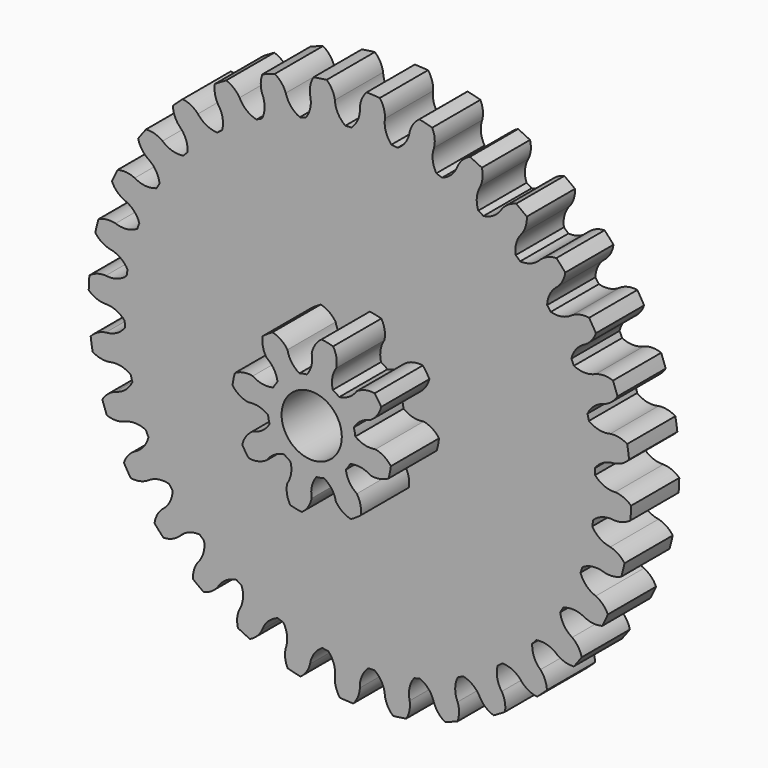
from build123d import *

# Parameters (mm, degrees)
F1_DEPTH = 6
F2_R     = 3
F3_DEPTH = 6.001
F4_R     = 3
F5_DEPTH = 6


with BuildPart() as f1:
    # F0 (on Front) → F1 (new body)
    with BuildSketch(Plane.XZ):
        with BuildLine():
            ThreePointArc((23.226319, -3.142921), (23.38502, -1.575021), (23.438, 0))
            ThreePointArc((23.438, 0), (23.434155, 0.424518), (23.422622, 0.848897))
            ThreePointArc((23.422622, 0.848897), (23.409825, 1.148893), (23.393185, 1.448699))
            ThreePointArc((23.393185, 1.448699), (23.184489, 3.437924), (22.806951, 5.402113))
            ThreePointArc((22.806951, 5.402113), (22.735874, 5.693847), (22.661064, 5.984647))
            ThreePointArc((22.661064, 5.984647), (22.0683, 7.894935), (21.314822, 9.747728))
            ThreePointArc((21.314822, 9.747728), (21.188196, 10.01999), (21.058092, 10.290608))
            ThreePointArc((21.058092, 10.290608), (20.104038, 12.048548), (19.003576, 13.718744))
            ThreePointArc((19.003576, 13.718744), (18.826267, 13.961071), (18.645868, 14.201107))
            ThreePointArc((18.645868, 14.201107), (17.367189, 15.739142), (15.962034, 17.162556))
            ThreePointArc((15.962034, 17.162556), (15.740856, 17.365636), (15.517095, 17.565865))
            ThreePointArc((15.517095, 17.565865), (13.96293, 18.824889), (12.307079, 19.94682))
            ThreePointArc((12.307079, 19.94682), (12.050532, 20.102848), (11.792008, 20.255577))
            ThreePointArc((11.792008, 20.255577), (10.022082, 21.187206), (8.179171, 21.96454))
            ThreePointArc((8.179171, 21.96454), (7.897114, 22.06752), (7.613761, 22.166878))
            ThreePointArc((7.613761, 22.166878), (5.696092, 22.735311), (3.736941, 23.138174))
            ThreePointArc((3.736941, 23.138174), (3.440213, 23.184149), (3.142921, 23.226319))
            ThreePointArc((3.142921, 23.226319), (1.151204, 23.409711), (-0.848897, 23.422622))
            ThreePointArc((-0.848897, 23.422622), (-1.148893, 23.409825), (-1.448699, 23.393185))
            ThreePointArc((-1.448699, 23.393185), (-3.437924, 23.184489), (-5.402113, 22.806951))
            ThreePointArc((-5.402113, 22.806951), (-5.693847, 22.735874), (-5.984647, 22.661064))
            ThreePointArc((-5.984647, 22.661064), (-7.894935, 22.0683), (-9.747728, 21.314822))
            ThreePointArc((-9.747728, 21.314822), (-10.01999, 21.188196), (-10.290608, 21.058092))
            ThreePointArc((-10.290608, 21.058092), (-12.048548, 20.104038), (-13.718744, 19.003576))
            ThreePointArc((-13.718744, 19.003576), (-13.961071, 18.826267), (-14.201107, 18.645868))
            ThreePointArc((-14.201107, 18.645868), (-15.739142, 17.367189), (-17.162556, 15.962034))
            ThreePointArc((-17.162556, 15.962034), (-17.365636, 15.740856), (-17.565865, 15.517095))
            ThreePointArc((-17.565865, 15.517095), (-18.824889, 13.96293), (-19.94682, 12.307079))
            ThreePointArc((-19.94682, 12.307079), (-20.102848, 12.050532), (-20.255577, 11.792008))
            ThreePointArc((-20.255577, 11.792008), (-21.187206, 10.022082), (-21.96454, 8.179171))
            ThreePointArc((-21.96454, 8.179171), (-22.06752, 7.897114), (-22.166878, 7.613761))
            ThreePointArc((-22.166878, 7.613761), (-22.735311, 5.696092), (-23.138174, 3.736941))
            ThreePointArc((-23.138174, 3.736941), (-23.184149, 3.440213), (-23.226319, 3.142921))
            ThreePointArc((-23.226319, 3.142921), (-23.409711, 1.151204), (-23.422622, -0.848897))
            ThreePointArc((-23.422622, -0.848897), (-23.409825, -1.148893), (-23.393185, -1.448699))
            ThreePointArc((-23.393185, -1.448699), (-23.184489, -3.437924), (-22.806951, -5.402113))
            ThreePointArc((-22.806951, -5.402113), (-22.735874, -5.693847), (-22.661064, -5.984647))
            ThreePointArc((-22.661064, -5.984647), (-22.0683, -7.894935), (-21.314822, -9.747728))
            ThreePointArc((-21.314822, -9.747728), (-21.188196, -10.01999), (-21.058092, -10.290608))
            ThreePointArc((-21.058092, -10.290608), (-20.104038, -12.048548), (-19.003576, -13.718744))
            ThreePointArc((-19.003576, -13.718744), (-18.826267, -13.961071), (-18.645868, -14.201107))
            ThreePointArc((-18.645868, -14.201107), (-17.367189, -15.739142), (-15.962034, -17.162556))
            ThreePointArc((-15.962034, -17.162556), (-15.740856, -17.365636), (-15.517095, -17.565865))
            ThreePointArc((-15.517095, -17.565865), (-13.96293, -18.824889), (-12.307079, -19.94682))
            ThreePointArc((-12.307079, -19.94682), (-12.050532, -20.102848), (-11.792008, -20.255577))
            ThreePointArc((-11.792008, -20.255577), (-10.022082, -21.187206), (-8.179171, -21.96454))
            ThreePointArc((-8.179171, -21.96454), (-7.897114, -22.06752), (-7.613761, -22.166878))
            ThreePointArc((-7.613761, -22.166878), (-5.696092, -22.735311), (-3.736941, -23.138174))
            ThreePointArc((-3.736941, -23.138174), (-3.440213, -23.184149), (-3.142921, -23.226319))
            ThreePointArc((-3.142921, -23.226319), (-1.151204, -23.409711), (0.848897, -23.422622))
            ThreePointArc((0.848897, -23.422622), (1.148893, -23.409825), (1.448699, -23.393185))
            ThreePointArc((1.448699, -23.393185), (3.437924, -23.184489), (5.402113, -22.806951))
            ThreePointArc((5.402113, -22.806951), (5.693847, -22.735874), (5.984647, -22.661064))
            ThreePointArc((5.984647, -22.661064), (7.894935, -22.0683), (9.747728, -21.314822))
            ThreePointArc((9.747728, -21.314822), (10.01999, -21.188196), (10.290608, -21.058092))
            ThreePointArc((10.290608, -21.058092), (12.048548, -20.104038), (13.718744, -19.003576))
            ThreePointArc((13.718744, -19.003576), (13.961071, -18.826267), (14.201107, -18.645868))
            ThreePointArc((14.201107, -18.645868), (15.739142, -17.367189), (17.162556, -15.962034))
            ThreePointArc((17.162556, -15.962034), (17.365636, -15.740856), (17.565865, -15.517095))
            ThreePointArc((17.565865, -15.517095), (18.824889, -13.96293), (19.94682, -12.307079))
            ThreePointArc((19.94682, -12.307079), (20.102848, -12.050532), (20.255577, -11.792008))
            ThreePointArc((20.255577, -11.792008), (21.187206, -10.022082), (21.96454, -8.179171))
            ThreePointArc((21.96454, -8.179171), (22.06752, -7.897114), (22.166878, -7.613761))
            ThreePointArc((22.166878, -7.613761), (22.735311, -5.696092), (23.138174, -3.736941))
            ThreePointArc((23.138174, -3.736941), (23.184149, -3.440213), (23.226319, -3.142921))
        make_face()
        with BuildLine():
            ThreePointArc((23.422622, 0.848897), (23.434155, 0.424518), (23.438, 0))
            ThreePointArc((23.438, 0), (23.38502, -1.575021), (23.226319, -3.142921))
            ThreePointArc((23.226319, -3.142921), (24.189569, -2.581084), (25.30133, -2.494486))
            ThreePointArc((25.30133, -2.494486), (26.165813, -2.384789), (26.939987, -1.984765))
            ThreePointArc((26.939987, -1.984765), (26.980396, -1.326797), (27.004738, -0.668039))
            ThreePointArc((27.004738, -0.668039), (26.273549, -0.193986), (25.424, 0))
            ThreePointArc((25.424, 0), (24.3261, 0.195261), (23.422622, 0.848897))
        make_face()
        with BuildLine():
            ThreePointArc((22.806951, 5.402113), (23.184489, 3.437924), (23.393185, 1.448699))
            ThreePointArc((23.393185, 1.448699), (24.228318, 2.187662), (25.301822, 2.48949))
            ThreePointArc((25.301822, 2.48949), (26.128294, 2.765731), (26.809551, 3.309103))
            ThreePointArc((26.809551, 3.309103), (26.720821, 3.962311), (26.616178, 4.61316))
            ThreePointArc((26.616178, 4.61316), (25.806555, 4.935456), (24.935485, 4.959976))
            ThreePointArc((24.935485, 4.959976), (23.820587, 4.937296), (22.806951, 5.402113))
        make_face()
        with BuildLine():
            ThreePointArc((24.935485, -4.959976), (23.896774, -4.554277), (23.138174, -3.736941))
            ThreePointArc((23.138174, -3.736941), (22.735311, -5.696092), (22.166878, -7.613761))
            ThreePointArc((22.166878, -7.613761), (23.221229, -7.25064), (24.328522, -7.382599))
            ThreePointArc((24.328522, -7.382599), (25.197795, -7.443663), (26.035134, -7.202359))
            ThreePointArc((26.035134, -7.202359), (26.20313, -6.564917), (26.355522, -5.923566))
            ThreePointArc((26.355522, -5.923566), (25.730865, -5.315974), (24.935485, -4.959976))
        make_face()
        with BuildLine():
            ThreePointArc((21.314822, 9.747728), (22.0683, 7.894935), (22.661064, 5.984647))
            ThreePointArc((22.661064, 5.984647), (23.335986, 6.872337), (24.32998, 7.377796))
            ThreePointArc((24.32998, 7.377796), (25.086679, 7.809965), (25.648839, 8.475803))
            ThreePointArc((25.648839, 8.475803), (25.434379, 9.09915), (25.204772, 9.717078))
            ThreePointArc((25.204772, 9.717078), (24.347829, 9.875232), (23.488713, 9.729344))
            ThreePointArc((23.488713, 9.729344), (22.399662, 9.489593), (21.314822, 9.747728))
        make_face()
        with BuildLine():
            ThreePointArc((23.488713, -9.729344), (22.549109, -9.128797), (21.96454, -8.179171))
            ThreePointArc((21.96454, -8.179171), (21.187206, -10.022082), (20.255577, -11.792008))
            ThreePointArc((20.255577, -11.792008), (21.36051, -11.641558), (22.420783, -11.987004))
            ThreePointArc((22.420783, -11.987004), (23.26144, -12.216481), (24.129766, -12.14317))
            ThreePointArc((24.129766, -12.14317), (24.418893, -11.550751), (24.693478, -10.951453))
            ThreePointArc((24.693478, -10.951453), (24.199359, -10.233672), (23.488713, -9.729344))
        make_face()
        with BuildLine():
            ThreePointArc((19.003576, 13.718744), (20.104038, 12.048548), (21.058092, 10.290608))
            ThreePointArc((21.058092, 10.290608), (21.546865, 11.292912), (22.423149, 11.982577))
            ThreePointArc((22.423149, 11.982577), (23.080996, 12.554067), (23.502456, 13.316783))
            ThreePointArc((23.502456, 13.316783), (23.170508, 13.886314), (22.824762, 14.447575))
            ThreePointArc((22.824762, 14.447575), (21.95343, 14.435508), (21.139283, 14.124818))
            ThreePointArc((21.139283, 14.124818), (20.117931, 13.677211), (19.003576, 13.718744))
        make_face()
        with BuildLine():
            ThreePointArc((21.139283, -14.124818), (20.334894, -13.352503), (19.94682, -12.307079))
            ThreePointArc((19.94682, -12.307079), (18.824889, -13.96293), (17.565865, -15.517095))
            ThreePointArc((17.565865, -15.517095), (18.678918, -15.585098), (19.651425, -16.130755))
            ThreePointArc((19.651425, -16.130755), (20.431161, -16.519827), (21.297104, -16.617326))
            ThreePointArc((21.297104, -16.617326), (21.696251, -16.092696), (22.082477, -15.558483))
            ThreePointArc((22.082477, -15.558483), (21.737885, -14.758095), (21.139283, -14.124818))
        make_face()
        with BuildLine():
            ThreePointArc((15.962034, 17.162556), (17.367189, 15.739142), (18.645868, 14.201107))
            ThreePointArc((18.645868, 14.201107), (18.92971, 15.279506), (19.65461, 16.126875))
            ThreePointArc((19.65461, 16.126875), (20.188325, 16.815723), (20.452888, 17.646007))
            ThreePointArc((20.452888, 17.646007), (20.016208, 18.139834), (19.567608, 18.622859))
            ThreePointArc((19.567608, 18.622859), (18.715374, 18.441036), (17.977483, 17.977483))
            ThreePointArc((17.977483, 17.977483), (17.063079, 17.339221), (15.962034, 17.162556))
        make_face()
        with BuildLine():
            ThreePointArc((17.977483, -17.977483), (17.339221, -17.063079), (17.162556, -15.962034))
            ThreePointArc((17.162556, -15.962034), (15.739142, -17.367189), (14.201107, -18.645868))
            ThreePointArc((14.201107, -18.645868), (15.279506, -18.92971), (16.126875, -19.65461))
            ThreePointArc((16.126875, -19.65461), (16.815723, -20.188325), (17.646007, -20.452888))
            ThreePointArc((17.646007, -20.452888), (18.139834, -20.016208), (18.622859, -19.567608))
            ThreePointArc((18.622859, -19.567608), (18.441036, -18.715374), (17.977483, -17.977483))
        make_face()
        with BuildLine():
            ThreePointArc((12.307079, 19.94682), (13.96293, 18.824889), (15.517095, 17.565865))
            ThreePointArc((15.517095, 17.565865), (15.585098, 18.678918), (16.130755, 19.651425))
            ThreePointArc((16.130755, 19.651425), (16.519827, 20.431161), (16.617326, 21.297104))
            ThreePointArc((16.617326, 21.297104), (16.092696, 21.696251), (15.558483, 22.082477))
            ThreePointArc((15.558483, 22.082477), (14.758095, 21.737885), (14.124818, 21.139283))
            ThreePointArc((14.124818, 21.139283), (13.352503, 20.334894), (12.307079, 19.94682))
        make_face()
        with BuildLine():
            ThreePointArc((14.124818, -21.139283), (13.677211, -20.117931), (13.718744, -19.003576))
            ThreePointArc((13.718744, -19.003576), (12.048548, -20.104038), (10.290608, -21.058092))
            ThreePointArc((10.290608, -21.058092), (11.292912, -21.546865), (11.982577, -22.423149))
            ThreePointArc((11.982577, -22.423149), (12.554067, -23.080996), (13.316783, -23.502456))
            ThreePointArc((13.316783, -23.502456), (13.886314, -23.170508), (14.447575, -22.824762))
            ThreePointArc((14.447575, -22.824762), (14.435508, -21.95343), (14.124818, -21.139283))
        make_face()
        with BuildLine():
            ThreePointArc((8.179171, 21.96454), (10.022082, 21.187206), (11.792008, 20.255577))
            ThreePointArc((11.792008, 20.255577), (11.641558, 21.36051), (11.987004, 22.420783))
            ThreePointArc((11.987004, 22.420783), (12.216481, 23.26144), (12.14317, 24.129766))
            ThreePointArc((12.14317, 24.129766), (11.550751, 24.418893), (10.951453, 24.693478))
            ThreePointArc((10.951453, 24.693478), (10.233672, 24.199359), (9.729344, 23.488713))
            ThreePointArc((9.729344, 23.488713), (9.128797, 22.549109), (8.179171, 21.96454))
        make_face()
        with BuildLine():
            ThreePointArc((9.729344, -23.488713), (9.489593, -22.399662), (9.747728, -21.314822))
            ThreePointArc((9.747728, -21.314822), (7.894935, -22.0683), (5.984647, -22.661064))
            ThreePointArc((5.984647, -22.661064), (6.872337, -23.335986), (7.377796, -24.32998))
            ThreePointArc((7.377796, -24.32998), (7.809965, -25.086679), (8.475803, -25.648839))
            ThreePointArc((8.475803, -25.648839), (9.09915, -25.434379), (9.717078, -25.204772))
            ThreePointArc((9.717078, -25.204772), (9.875232, -24.347829), (9.729344, -23.488713))
        make_face()
        with BuildLine():
            ThreePointArc((3.736941, 23.138174), (5.696092, 22.735311), (7.613761, 22.166878))
            ThreePointArc((7.613761, 22.166878), (7.25064, 23.221229), (7.382599, 24.328522))
            ThreePointArc((7.382599, 24.328522), (7.443663, 25.197795), (7.202359, 26.035134))
            ThreePointArc((7.202359, 26.035134), (6.564917, 26.20313), (5.923566, 26.355522))
            ThreePointArc((5.923566, 26.355522), (5.315974, 25.730865), (4.959976, 24.935485))
            ThreePointArc((4.959976, 24.935485), (4.554277, 23.896774), (3.736941, 23.138174))
        make_face()
        with BuildLine():
            ThreePointArc((4.959976, -24.935485), (4.937296, -23.820587), (5.402113, -22.806951))
            ThreePointArc((5.402113, -22.806951), (3.437924, -23.184489), (1.448699, -23.393185))
            ThreePointArc((1.448699, -23.393185), (2.187662, -24.228318), (2.48949, -25.301822))
            ThreePointArc((2.48949, -25.301822), (2.765731, -26.128294), (3.309103, -26.809551))
            ThreePointArc((3.309103, -26.809551), (3.962311, -26.720821), (4.61316, -26.616178))
            ThreePointArc((4.61316, -26.616178), (4.935456, -25.806555), (4.959976, -24.935485))
        make_face()
        with BuildLine():
            ThreePointArc((-0.848897, 23.422622), (1.151204, 23.409711), (3.142921, 23.226319))
            ThreePointArc((3.142921, 23.226319), (2.581084, 24.189569), (2.494486, 25.30133))
            ThreePointArc((2.494486, 25.30133), (2.384789, 26.165813), (1.984765, 26.939987))
            ThreePointArc((1.984765, 26.939987), (1.326797, 26.980396), (0.668039, 27.004738))
            ThreePointArc((0.668039, 27.004738), (0.193986, 26.273549), (0, 25.424))
            ThreePointArc((0, 25.424), (-0.195261, 24.3261), (-0.848897, 23.422622))
        make_face()
        with BuildLine():
            ThreePointArc((0, -25.424), (0.195261, -24.3261), (0.848897, -23.422622))
            ThreePointArc((0.848897, -23.422622), (-1.151204, -23.409711), (-3.142921, -23.226319))
            ThreePointArc((-3.142921, -23.226319), (-2.581084, -24.189569), (-2.494486, -25.30133))
            ThreePointArc((-2.494486, -25.30133), (-2.384789, -26.165813), (-1.984765, -26.939987))
            ThreePointArc((-1.984765, -26.939987), (-1.326797, -26.980396), (-0.668039, -27.004738))
            ThreePointArc((-0.668039, -27.004738), (-0.193986, -26.273549), (0, -25.424))
        make_face()
        with BuildLine():
            ThreePointArc((-5.402113, 22.806951), (-3.437924, 23.184489), (-1.448699, 23.393185))
            ThreePointArc((-1.448699, 23.393185), (-2.187662, 24.228318), (-2.48949, 25.301822))
            ThreePointArc((-2.48949, 25.301822), (-2.765731, 26.128294), (-3.309103, 26.809551))
            ThreePointArc((-3.309103, 26.809551), (-3.962311, 26.720821), (-4.61316, 26.616178))
            ThreePointArc((-4.61316, 26.616178), (-4.935456, 25.806555), (-4.959976, 24.935485))
            ThreePointArc((-4.959976, 24.935485), (-4.937296, 23.820587), (-5.402113, 22.806951))
        make_face()
        with BuildLine():
            ThreePointArc((-4.959976, -24.935485), (-4.554277, -23.896774), (-3.736941, -23.138174))
            ThreePointArc((-3.736941, -23.138174), (-5.696092, -22.735311), (-7.613761, -22.166878))
            ThreePointArc((-7.613761, -22.166878), (-7.25064, -23.221229), (-7.382599, -24.328522))
            ThreePointArc((-7.382599, -24.328522), (-7.443663, -25.197795), (-7.202359, -26.035134))
            ThreePointArc((-7.202359, -26.035134), (-6.564917, -26.20313), (-5.923566, -26.355522))
            ThreePointArc((-5.923566, -26.355522), (-5.315974, -25.730865), (-4.959976, -24.935485))
        make_face()
        with BuildLine():
            ThreePointArc((-9.747728, 21.314822), (-7.894935, 22.0683), (-5.984647, 22.661064))
            ThreePointArc((-5.984647, 22.661064), (-6.872337, 23.335986), (-7.377796, 24.32998))
            ThreePointArc((-7.377796, 24.32998), (-7.809965, 25.086679), (-8.475803, 25.648839))
            ThreePointArc((-8.475803, 25.648839), (-9.09915, 25.434379), (-9.717078, 25.204772))
            ThreePointArc((-9.717078, 25.204772), (-9.875232, 24.347829), (-9.729344, 23.488713))
            ThreePointArc((-9.729344, 23.488713), (-9.489593, 22.399662), (-9.747728, 21.314822))
        make_face()
        with BuildLine():
            ThreePointArc((-9.729344, -23.488713), (-9.128797, -22.549109), (-8.179171, -21.96454))
            ThreePointArc((-8.179171, -21.96454), (-10.022082, -21.187206), (-11.792008, -20.255577))
            ThreePointArc((-11.792008, -20.255577), (-11.641558, -21.36051), (-11.987004, -22.420783))
            ThreePointArc((-11.987004, -22.420783), (-12.216481, -23.26144), (-12.14317, -24.129766))
            ThreePointArc((-12.14317, -24.129766), (-11.550751, -24.418893), (-10.951453, -24.693478))
            ThreePointArc((-10.951453, -24.693478), (-10.233672, -24.199359), (-9.729344, -23.488713))
        make_face()
        with BuildLine():
            ThreePointArc((-13.718744, 19.003576), (-12.048548, 20.104038), (-10.290608, 21.058092))
            ThreePointArc((-10.290608, 21.058092), (-11.292912, 21.546865), (-11.982577, 22.423149))
            ThreePointArc((-11.982577, 22.423149), (-12.554067, 23.080996), (-13.316783, 23.502456))
            ThreePointArc((-13.316783, 23.502456), (-13.886314, 23.170508), (-14.447575, 22.824762))
            ThreePointArc((-14.447575, 22.824762), (-14.435508, 21.95343), (-14.124818, 21.139283))
            ThreePointArc((-14.124818, 21.139283), (-13.677211, 20.117931), (-13.718744, 19.003576))
        make_face()
        with BuildLine():
            ThreePointArc((-14.124818, -21.139283), (-13.352503, -20.334894), (-12.307079, -19.94682))
            ThreePointArc((-12.307079, -19.94682), (-13.96293, -18.824889), (-15.517095, -17.565865))
            ThreePointArc((-15.517095, -17.565865), (-15.585098, -18.678918), (-16.130755, -19.651425))
            ThreePointArc((-16.130755, -19.651425), (-16.519827, -20.431161), (-16.617326, -21.297104))
            ThreePointArc((-16.617326, -21.297104), (-16.092696, -21.696251), (-15.558483, -22.082477))
            ThreePointArc((-15.558483, -22.082477), (-14.758095, -21.737885), (-14.124818, -21.139283))
        make_face()
        with BuildLine():
            ThreePointArc((-17.162556, 15.962034), (-15.739142, 17.367189), (-14.201107, 18.645868))
            ThreePointArc((-14.201107, 18.645868), (-15.279506, 18.92971), (-16.126875, 19.65461))
            ThreePointArc((-16.126875, 19.65461), (-16.815723, 20.188325), (-17.646007, 20.452888))
            ThreePointArc((-17.646007, 20.452888), (-18.139834, 20.016208), (-18.622859, 19.567608))
            ThreePointArc((-18.622859, 19.567608), (-18.441036, 18.715374), (-17.977483, 17.977483))
            ThreePointArc((-17.977483, 17.977483), (-17.339221, 17.063079), (-17.162556, 15.962034))
        make_face()
        with BuildLine():
            ThreePointArc((-17.977483, -17.977483), (-17.063079, -17.339221), (-15.962034, -17.162556))
            ThreePointArc((-15.962034, -17.162556), (-17.367189, -15.739142), (-18.645868, -14.201107))
            ThreePointArc((-18.645868, -14.201107), (-18.92971, -15.279506), (-19.65461, -16.126875))
            ThreePointArc((-19.65461, -16.126875), (-20.188325, -16.815723), (-20.452888, -17.646007))
            ThreePointArc((-20.452888, -17.646007), (-20.016208, -18.139834), (-19.567608, -18.622859))
            ThreePointArc((-19.567608, -18.622859), (-18.715374, -18.441036), (-17.977483, -17.977483))
        make_face()
        with BuildLine():
            ThreePointArc((-19.94682, 12.307079), (-18.824889, 13.96293), (-17.565865, 15.517095))
            ThreePointArc((-17.565865, 15.517095), (-18.678918, 15.585098), (-19.651425, 16.130755))
            ThreePointArc((-19.651425, 16.130755), (-20.431161, 16.519827), (-21.297104, 16.617326))
            ThreePointArc((-21.297104, 16.617326), (-21.696251, 16.092696), (-22.082477, 15.558483))
            ThreePointArc((-22.082477, 15.558483), (-21.737885, 14.758095), (-21.139283, 14.124818))
            ThreePointArc((-21.139283, 14.124818), (-20.334894, 13.352503), (-19.94682, 12.307079))
        make_face()
        with BuildLine():
            ThreePointArc((-21.139283, -14.124818), (-20.117931, -13.677211), (-19.003576, -13.718744))
            ThreePointArc((-19.003576, -13.718744), (-20.104038, -12.048548), (-21.058092, -10.290608))
            ThreePointArc((-21.058092, -10.290608), (-21.546865, -11.292912), (-22.423149, -11.982577))
            ThreePointArc((-22.423149, -11.982577), (-23.080996, -12.554067), (-23.502456, -13.316783))
            ThreePointArc((-23.502456, -13.316783), (-23.170508, -13.886314), (-22.824762, -14.447575))
            ThreePointArc((-22.824762, -14.447575), (-21.95343, -14.435508), (-21.139283, -14.124818))
        make_face()
        with BuildLine():
            ThreePointArc((-21.96454, 8.179171), (-21.187206, 10.022082), (-20.255577, 11.792008))
            ThreePointArc((-20.255577, 11.792008), (-21.36051, 11.641558), (-22.420783, 11.987004))
            ThreePointArc((-22.420783, 11.987004), (-23.26144, 12.216481), (-24.129766, 12.14317))
            ThreePointArc((-24.129766, 12.14317), (-24.418893, 11.550751), (-24.693478, 10.951453))
            ThreePointArc((-24.693478, 10.951453), (-24.199359, 10.233672), (-23.488713, 9.729344))
            ThreePointArc((-23.488713, 9.729344), (-22.549109, 9.128797), (-21.96454, 8.179171))
        make_face()
        with BuildLine():
            ThreePointArc((-23.488713, -9.729344), (-22.399662, -9.489593), (-21.314822, -9.747728))
            ThreePointArc((-21.314822, -9.747728), (-22.0683, -7.894935), (-22.661064, -5.984647))
            ThreePointArc((-22.661064, -5.984647), (-23.335986, -6.872337), (-24.32998, -7.377796))
            ThreePointArc((-24.32998, -7.377796), (-25.086679, -7.809965), (-25.648839, -8.475803))
            ThreePointArc((-25.648839, -8.475803), (-25.434379, -9.09915), (-25.204772, -9.717078))
            ThreePointArc((-25.204772, -9.717078), (-24.347829, -9.875232), (-23.488713, -9.729344))
        make_face()
        with BuildLine():
            ThreePointArc((-23.138174, 3.736941), (-22.735311, 5.696092), (-22.166878, 7.613761))
            ThreePointArc((-22.166878, 7.613761), (-23.221229, 7.25064), (-24.328522, 7.382599))
            ThreePointArc((-24.328522, 7.382599), (-25.197795, 7.443663), (-26.035134, 7.202359))
            ThreePointArc((-26.035134, 7.202359), (-26.20313, 6.564917), (-26.355522, 5.923566))
            ThreePointArc((-26.355522, 5.923566), (-25.730865, 5.315974), (-24.935485, 4.959976))
            ThreePointArc((-24.935485, 4.959976), (-23.896774, 4.554277), (-23.138174, 3.736941))
        make_face()
        with BuildLine():
            ThreePointArc((-24.935485, -4.959976), (-23.820587, -4.937296), (-22.806951, -5.402113))
            ThreePointArc((-22.806951, -5.402113), (-23.184489, -3.437924), (-23.393185, -1.448699))
            ThreePointArc((-23.393185, -1.448699), (-24.228318, -2.187662), (-25.301822, -2.48949))
            ThreePointArc((-25.301822, -2.48949), (-26.128294, -2.765731), (-26.809551, -3.309103))
            ThreePointArc((-26.809551, -3.309103), (-26.720821, -3.962311), (-26.616178, -4.61316))
            ThreePointArc((-26.616178, -4.61316), (-25.806555, -4.935456), (-24.935485, -4.959976))
        make_face()
        with BuildLine():
            ThreePointArc((-23.422622, -0.848897), (-23.409711, 1.151204), (-23.226319, 3.142921))
            ThreePointArc((-23.226319, 3.142921), (-24.189569, 2.581084), (-25.30133, 2.494486))
            ThreePointArc((-25.30133, 2.494486), (-26.165813, 2.384789), (-26.939987, 1.984765))
            ThreePointArc((-26.939987, 1.984765), (-26.980396, 1.326797), (-27.004738, 0.668039))
            ThreePointArc((-27.004738, 0.668039), (-26.273549, 0.193986), (-25.424, 0))
            ThreePointArc((-25.424, 0), (-24.3261, -0.195261), (-23.422622, -0.848897))
        make_face()
    extrude(amount=F1_DEPTH)

    # F2 (on face) → F3 (cut, through all)
    with BuildSketch(Plane.XZ.offset(6)):
        Circle(F2_R)
    extrude(amount=-F3_DEPTH, mode=Mode.SUBTRACT)

    # F4 (on face) → F5 (join)
    with BuildSketch(Plane.XZ.offset(6)):
        with BuildLine():
            ThreePointArc((-3.402854, 2.741804), (-2.422735, 3.636929), (-1.219095, 4.196511))
            ThreePointArc((-1.219095, 4.196511), (-1.999462, 4.908294), (-2.415828, 5.878989))
            ThreePointArc((-2.415828, 5.878989), (-3.061055, 6.539636), (-3.902239, 6.920661))
            ThreePointArc((-3.902239, 6.920661), (-4.404721, 6.61222), (-4.882946, 6.267365))
            ThreePointArc((-4.882946, 6.267365), (-4.855425, 5.344319), (-4.494371, 4.494371))
            ThreePointArc((-4.494371, 4.494371), (-3.75903, 3.736161), (-3.402854, 2.741804))
        make_face()
        with BuildLine():
            ThreePointArc((-0.467433, 4.344929), (0.858565, 4.28483), (2.105351, 3.829412))
            ThreePointArc((2.105351, 3.829412), (2.056855, 4.884522), (2.448824, 5.865321))
            ThreePointArc((2.448824, 5.865321), (2.459729, 6.788714), (2.134347, 7.652946))
            ThreePointArc((2.134347, 7.652946), (1.560938, 7.790154), (0.978932, 7.88446))
            ThreePointArc((0.978932, 7.88446), (0.3457, 7.212308), (0, 6.356))
            ThreePointArc((0, 6.356), (-0.01617, 5.2999), (-0.467433, 4.344929))
        make_face()
        with BuildLine():
            ThreePointArc((3.829412, -2.105351), (4.232696, -1.086823), (4.37, 0))
            ThreePointArc((4.37, 0), (4.363728, 0.234052), (4.344929, 0.467433))
            ThreePointArc((4.344929, 0.467433), (4.287225, 0.846523), (4.196511, 1.219095))
            ThreePointArc((4.196511, 1.219095), (3.636929, 2.422735), (2.741804, 3.402854))
            ThreePointArc((2.741804, 3.402854), (2.432944, 3.630108), (2.105351, 3.829412))
            ThreePointArc((2.105351, 3.829412), (0.858565, 4.28483), (-0.467433, 4.344929))
            ThreePointArc((-0.467433, 4.344929), (-0.846523, 4.287225), (-1.219095, 4.196511))
            ThreePointArc((-1.219095, 4.196511), (-2.422735, 3.636929), (-3.402854, 2.741804))
            ThreePointArc((-3.402854, 2.741804), (-3.630108, 2.432944), (-3.829412, 2.105351))
            ThreePointArc((-3.829412, 2.105351), (-4.28483, 0.858565), (-4.344929, -0.467433))
            ThreePointArc((-4.344929, -0.467433), (-4.287225, -0.846523), (-4.196511, -1.219095))
            ThreePointArc((-4.196511, -1.219095), (-3.636929, -2.422735), (-2.741804, -3.402854))
            ThreePointArc((-2.741804, -3.402854), (-2.432944, -3.630108), (-2.105351, -3.829412))
            ThreePointArc((-2.105351, -3.829412), (-0.858565, -4.28483), (0.467433, -4.344929))
            ThreePointArc((0.467433, -4.344929), (0.846523, -4.287225), (1.219095, -4.196511))
            ThreePointArc((1.219095, -4.196511), (2.422735, -3.636929), (3.402854, -2.741804))
            ThreePointArc((3.402854, -2.741804), (3.630108, -2.432944), (3.829412, -2.105351))
        make_face()
        Circle(F4_R, mode=Mode.SUBTRACT)
        with BuildLine():
            ThreePointArc((2.741804, 3.402854), (3.636929, 2.422735), (4.196511, 1.219095))
            ThreePointArc((4.196511, 1.219095), (4.908294, 1.999462), (5.878989, 2.415828))
            ThreePointArc((5.878989, 2.415828), (6.539636, 3.061055), (6.920661, 3.902239))
            ThreePointArc((6.920661, 3.902239), (6.61222, 4.404721), (6.267365, 4.882946))
            ThreePointArc((6.267365, 4.882946), (5.344319, 4.855425), (4.494371, 4.494371))
            ThreePointArc((4.494371, 4.494371), (3.736161, 3.75903), (2.741804, 3.402854))
        make_face()
        with BuildLine():
            ThreePointArc((4.344929, 0.467433), (4.363728, 0.234052), (4.37, 0))
            ThreePointArc((4.37, 0), (4.232696, -1.086823), (3.829412, -2.105351))
            ThreePointArc((3.829412, -2.105351), (4.884522, -2.056855), (5.865321, -2.448824))
            ThreePointArc((5.865321, -2.448824), (6.788714, -2.459729), (7.652946, -2.134347))
            ThreePointArc((7.652946, -2.134347), (7.790154, -1.560938), (7.88446, -0.978932))
            ThreePointArc((7.88446, -0.978932), (7.212308, -0.3457), (6.356, 0))
            ThreePointArc((6.356, 0), (5.2999, 0.01617), (4.344929, 0.467433))
        make_face()
        with BuildLine():
            ThreePointArc((4.494371, -4.494371), (3.75903, -3.736161), (3.402854, -2.741804))
            ThreePointArc((3.402854, -2.741804), (2.422735, -3.636929), (1.219095, -4.196511))
            ThreePointArc((1.219095, -4.196511), (1.999462, -4.908294), (2.415828, -5.878989))
            ThreePointArc((2.415828, -5.878989), (3.061055, -6.539636), (3.902239, -6.920661))
            ThreePointArc((3.902239, -6.920661), (4.404721, -6.61222), (4.882946, -6.267365))
            ThreePointArc((4.882946, -6.267365), (4.855425, -5.344319), (4.494371, -4.494371))
        make_face()
        with BuildLine():
            ThreePointArc((0, -6.356), (0.01617, -5.2999), (0.467433, -4.344929))
            ThreePointArc((0.467433, -4.344929), (-0.858565, -4.28483), (-2.105351, -3.829412))
            ThreePointArc((-2.105351, -3.829412), (-2.056855, -4.884522), (-2.448824, -5.865321))
            ThreePointArc((-2.448824, -5.865321), (-2.459729, -6.788714), (-2.134347, -7.652946))
            ThreePointArc((-2.134347, -7.652946), (-1.560938, -7.790154), (-0.978932, -7.88446))
            ThreePointArc((-0.978932, -7.88446), (-0.3457, -7.212308), (0, -6.356))
        make_face()
        with BuildLine():
            ThreePointArc((-4.494371, -4.494371), (-3.736161, -3.75903), (-2.741804, -3.402854))
            ThreePointArc((-2.741804, -3.402854), (-3.636929, -2.422735), (-4.196511, -1.219095))
            ThreePointArc((-4.196511, -1.219095), (-4.908294, -1.999462), (-5.878989, -2.415828))
            ThreePointArc((-5.878989, -2.415828), (-6.539636, -3.061055), (-6.920661, -3.902239))
            ThreePointArc((-6.920661, -3.902239), (-6.61222, -4.404721), (-6.267365, -4.882946))
            ThreePointArc((-6.267365, -4.882946), (-5.344319, -4.855425), (-4.494371, -4.494371))
        make_face()
        with BuildLine():
            ThreePointArc((-4.344929, -0.467433), (-4.28483, 0.858565), (-3.829412, 2.105351))
            ThreePointArc((-3.829412, 2.105351), (-4.884522, 2.056855), (-5.865321, 2.448824))
            ThreePointArc((-5.865321, 2.448824), (-6.788714, 2.459729), (-7.652946, 2.134347))
            ThreePointArc((-7.652946, 2.134347), (-7.790154, 1.560938), (-7.88446, 0.978932))
            ThreePointArc((-7.88446, 0.978932), (-7.212308, 0.3457), (-6.356, 0))
            ThreePointArc((-6.356, 0), (-5.2999, -0.01617), (-4.344929, -0.467433))
        make_face()
    extrude(amount=F5_DEPTH)


solid = f1.part
